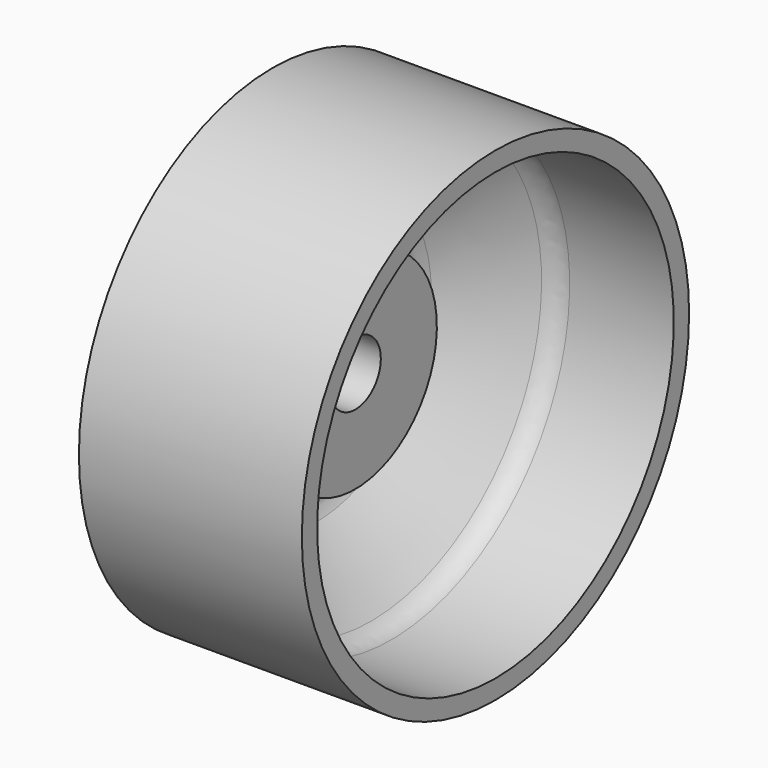
from build123d import *

# Parameters (mm, degrees)
F2_R     = 25.4
F3_SCALE = 1.6


with BuildPart() as f1:
    # F0 (on Front) → F1 (revolve)
    with BuildSketch(Plane.XZ):
        Polygon((111.125, 222.25), (111.125, 241.3), (-111.125, 241.3), (-111.125, 222.25), (-29.2621003771, 222.25), (-5.1864683628, 222.25), align=None)
        Polygon((-98.425, 101.6), (-5.1864683628, 222.25), (-29.2621003771, 222.25), (-122.5006320143, 101.6), align=None)
        Polygon((-28.575, 101.6), (-98.425, 101.6), (-122.5006320143, 101.6), (-168.275, 101.6), (-168.275, 31.75), (-28.575, 31.75), align=None)
    revolve(axis=Axis((-5.1864683628, 0, 0), (1, 0, 0)))

    # F2
    f2_edges = [f1.edges().sort_by_distance(p)[0] for p in [
        (-98.425, 0, -101.6),
        (-5.186468, 0, -222.25),
        (-51.805734, 0, 161.925),
        (-29.2621, 0, -222.25),
        (-122.500632, 0, -101.6),
        (-75.881366, 0, 161.925),
    ]]
    fillet(f2_edges, radius=F2_R)


with BuildPart() as f1_1:
    # F3: moved
    add(f1.part.scale(F3_SCALE))


solid = f1_1.part
